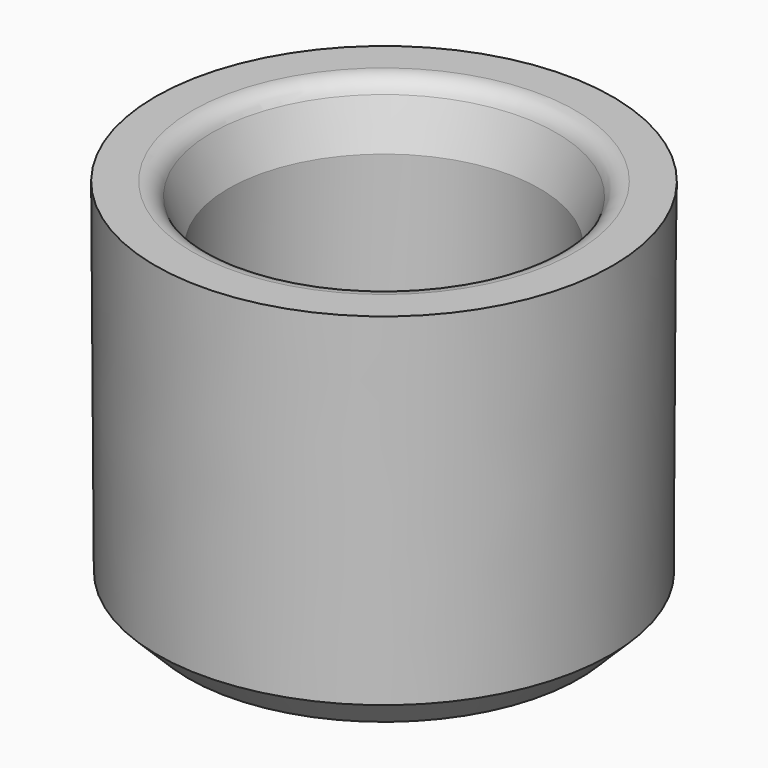
from build123d import *

# Parameters (mm, degrees)
F2_R    = 5.08
F3_SIZE = 7.62


with BuildPart() as f1:
    # F0 (on Front) → F1 (revolve)
    with BuildSketch(Plane.XZ):
        Polygon((-43.622624, 52.801218), (-56.252953, 52.801218), (-55.691604, -39.259836), (0, -39.259836), (0, -26.629508), (-38.289819, -26.629508), (-38.289819, 38.767517), align=None)
    revolve(axis=Axis((0, 0, -32.944672), (0, 0, -1)))

    # F2
    f2_edges = [f1.edges().sort_by_distance(p)[0] for p in [
        (43.622624, 0, 52.801218),
    ]]
    fillet(f2_edges, radius=F2_R)

    # F3
    f3_edges = [f1.edges().sort_by_distance(p)[0] for p in [
        (55.691604, 0, -39.259836),
    ]]
    chamfer(f3_edges, length=F3_SIZE)


solid = f1.part
